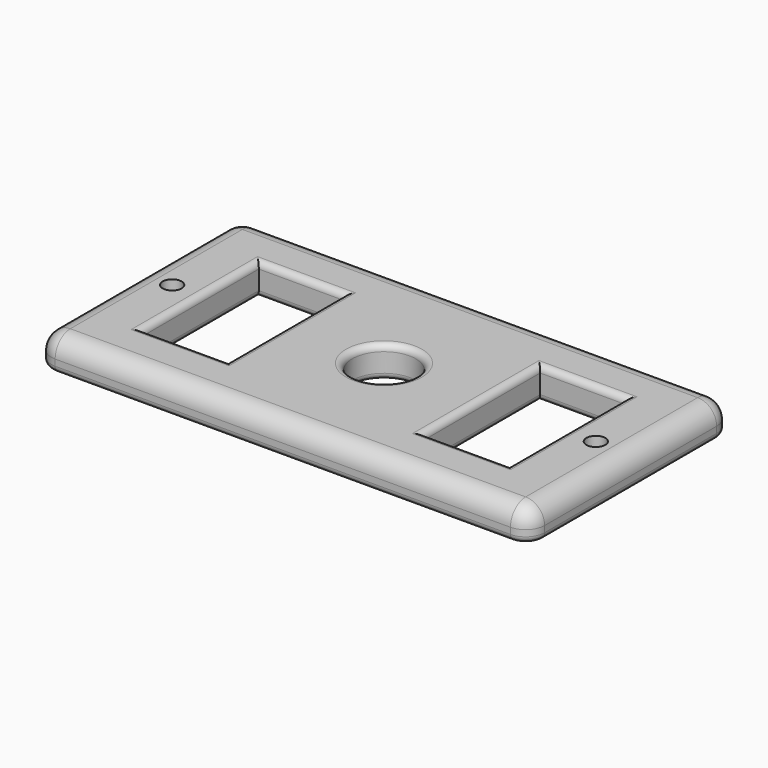
from build123d import *

# Parameters (mm, degrees)
F0_R     = 1.5
F0_W     = 13.5
F0_H     = 23
F0_R_2   = 5
F1_DEPTH = 5
F2_R     = 3
F3_R     = 1
F4_R     = 1


with BuildPart() as f1:
    # F0 (on Top) → F1 (new body)
    with BuildSketch(Plane.XY):
        Polygon((0, 20), (-39, 20), (-39, -20), (39, -20), (39, 0), (39, 20), align=None)
        with Locations((-33.5, 0)):
            Circle(F0_R, mode=Mode.SUBTRACT)
        with Locations((-22.25, 0)):
            Rectangle(F0_W, F0_H, mode=Mode.SUBTRACT)
        Circle(F0_R_2, mode=Mode.SUBTRACT)
        Polygon((15.5, 11.5), (29, 11.5), (29, 0), (29, -11.5), (15.5, -11.5), align=None, mode=Mode.SUBTRACT)
        with Locations((33.5, 0)):
            Circle(F0_R, mode=Mode.SUBTRACT)
    extrude(amount=F1_DEPTH)

    # F2
    f2_edges = [f1.edges().sort_by_distance(p)[0] for p in [
        (0, 20, 5),
        (-39, 0, 5),
        (0, -20, 5),
        (39, 0, 5),
        (-39, -20, 2.5),
        (-39, 20, 2.5),
        (39, 20, 2.5),
        (39, -20, 2.5),
    ]]
    fillet(f2_edges, radius=F2_R)

    # F3
    f3_edges = [f1.edges().sort_by_distance(p)[0] for p in [
        (0, -20, 0),
    ]]
    fillet(f3_edges, radius=F3_R)

    # F4
    f4_edges = [f1.edges().sort_by_distance(p)[0] for p in [
        (-22.25, -11.5, 5),
        (-15.5, 0, 5),
        (-22.25, 11.5, 5),
        (-29, 0, 5),
        (15.5, 0, 5),
        (22.25, 11.5, 5),
        (29, 0, 5),
        (22.25, -11.5, 5),
        (-29, 0, 0),
        (-15.5, 0, 0),
        (-22.25, 11.5, 0),
        (-22.25, -11.5, 0),
        (22.25, -11.5, 0),
        (29, 0, 0),
        (22.25, 11.5, 0),
        (15.5, 0, 0),
        (-5, 0, 5),
        (-5, 0, 0),
    ]]
    fillet(f4_edges, radius=F4_R)


solid = f1.part
